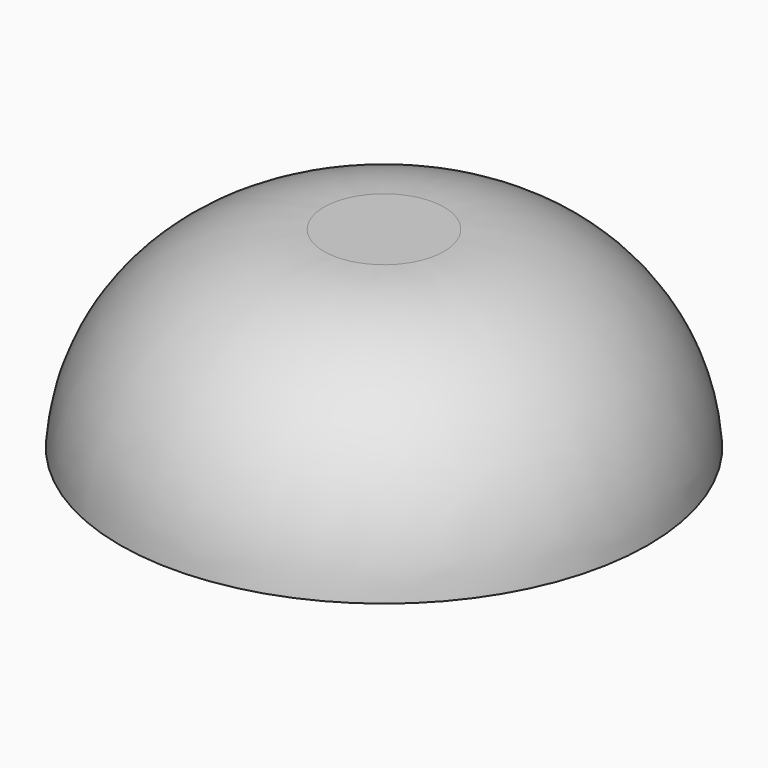
from build123d import *


with BuildPart() as f1:
    # F0 (on Front) → F1 (revolve)
    with BuildSketch(Plane.XZ):
        with BuildLine():
            Line((0, 48), (0, 45))
            Line((0, 45), (15, 45))
            ThreePointArc((15, 45), (47.896967, 31.990651), (62.998351, 0))
            Line((62.998351, 0), (65.998351, 0))
            ThreePointArc((65.998351, 0), (50.017252, 34.11263), (15, 48))
            Line((15, 48), (0, 48))
        make_face()
    revolve(axis=Axis((0, 0, 46.5), (0, 0, 1)))


solid = f1.part
